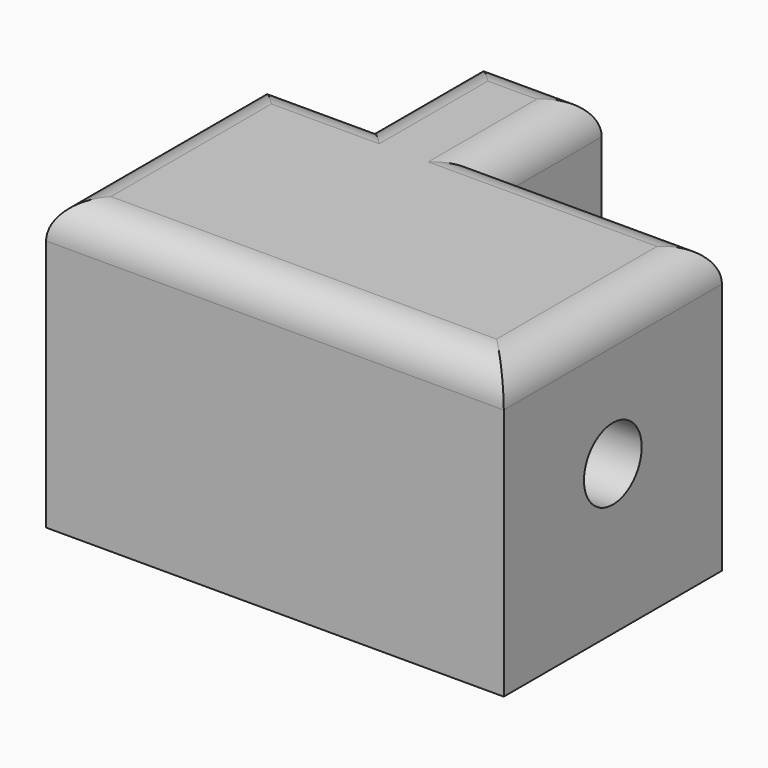
from build123d import *

# Parameters (mm, degrees)
F0_W     = 16.7905660346
F0_H     = 18.8323240727
F1_DEPTH = 40
F2_R     = 5
F4_D     = 10


with BuildPart() as f1:
    # F0 (on Top) → F1 (new body)
    with BuildSketch(Plane.XY):
        with Locations((23.3397786506, 47.2326790914)):
            Rectangle(F0_W, F0_H)
        Polygon((0, 37.816517055), (0, 0), (63.4701233357, 0), (63.4701233357, 37.816517055), (31.7350616679, 37.816517055), (14.9444956332, 37.816517055), align=None)
    extrude(amount=F1_DEPTH)

    # F2
    f2_edges = [f1.edges().sort_by_distance(p)[0] for p in [
        (31.735062, 47.232679, 40),
        (23.339779, 56.648841, 40),
        (31.735062, 0, 40),
        (0, 18.908259, 40),
        (47.602593, 37.816517, 40),
        (63.470123, 18.908259, 40),
        (14.944496, 47.232679, 40),
        (7.472248, 37.816517, 40),
    ]]
    fillet(f2_edges, radius=F2_R)

    # F4 (through all)
    with Locations(Plane.YZ.offset(63.4701233357)):
        with Locations((18.9082585275, 20.7553303242)):
            Hole(F4_D / 2)


solid = f1.part
